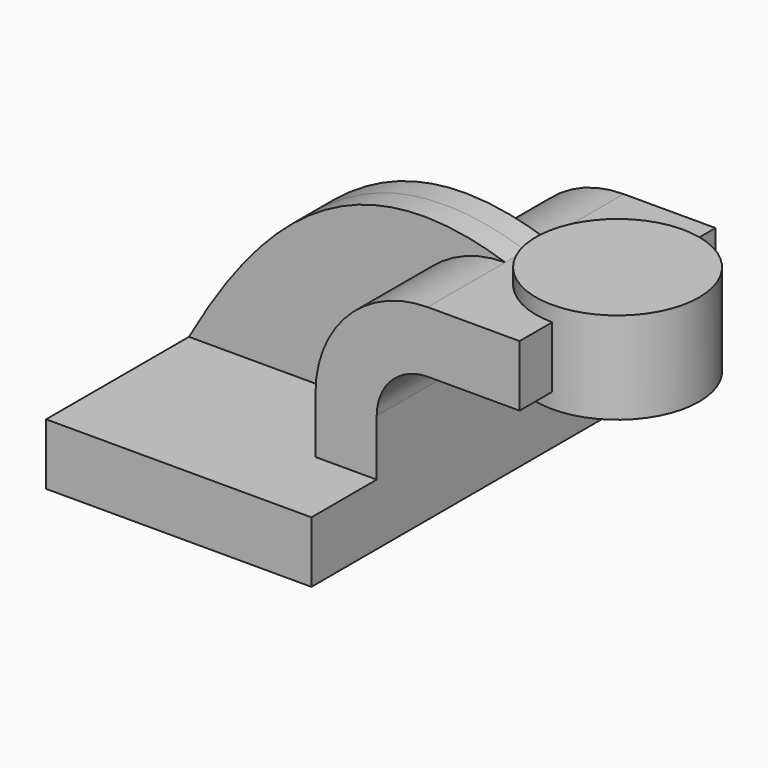
from build123d import *

# Parameters (mm, degrees)
F1_DEPTH = 63.5
F2_DEPTH = 7.9375
F0_W     = 25.4
F0_H     = 19.05
F3_DEPTH = 38.1


with BuildPart() as f1:
    # F0 (on Front) → F1 (new body, symmetric)
    with BuildSketch(Plane.XZ):
        Polygon((-41.275, 9.525), (-41.275, -9.525), (41.275, -9.525), (41.275, 9.525), (22.225, 9.525), align=None)
    extrude(amount=F1_DEPTH, both=True)

    # F0 (on Front) → F2 (join, symmetric)
    with BuildSketch(Plane.XZ):
        with BuildLine():
            add(Edge.make_bspline(
                [(-41.275, 9.525), (-19.269418, 48.490915), (8.980925, 77.770598), (57.15, 61.9252)],
                knots=[0, 0, 0, 0, 111.504536, 111.504536, 111.504536, 111.504536], degree=3))
            Line((-41.275, 9.525), (22.225, 9.525))
            Line((22.225, 9.525), (22.225, 27.0002))
            ThreePointArc((22.225, 27.0002), (32.454296, 51.695904), (57.15, 61.9252))
        make_face()
    extrude(amount=F2_DEPTH, both=True)

    # F0 (on Front) → F3 (join, symmetric)
    with BuildSketch(Plane.XZ):
        with BuildLine():
            Line((22.225, 9.525), (41.275, 9.525))
            Line((41.275, 9.525), (41.275, 27.0002))
            ThreePointArc((41.275, 27.0002), (45.92468, 38.22552), (57.15, 42.8752))
            Line((57.15, 42.8752), (60.325, 42.8752))
            Line((60.325, 42.8752), (60.325, 61.9252))
            Line((60.325, 61.9252), (57.15, 61.9252))
            ThreePointArc((57.15, 61.9252), (32.454296, 51.695904), (22.225, 27.0002))
            Line((22.225, 27.0002), (22.225, 9.525))
        make_face()
        with Locations((73.025, 52.4002)):
            Rectangle(F0_W, F0_H)
    extrude(amount=F3_DEPTH, both=True)

    # F0 (on Front) → F4 (revolve)
    with BuildSketch(Plane.XZ):
        Polygon((85.725, 66.675), (85.725, 61.9252), (85.725, 42.8752), (85.725, 38.1), (111.125, 38.1), (111.125, 66.675), align=None)
    revolve(axis=Axis((85.725, 0, 52.4002), (0, 0, -1)))


solid = f1.part
